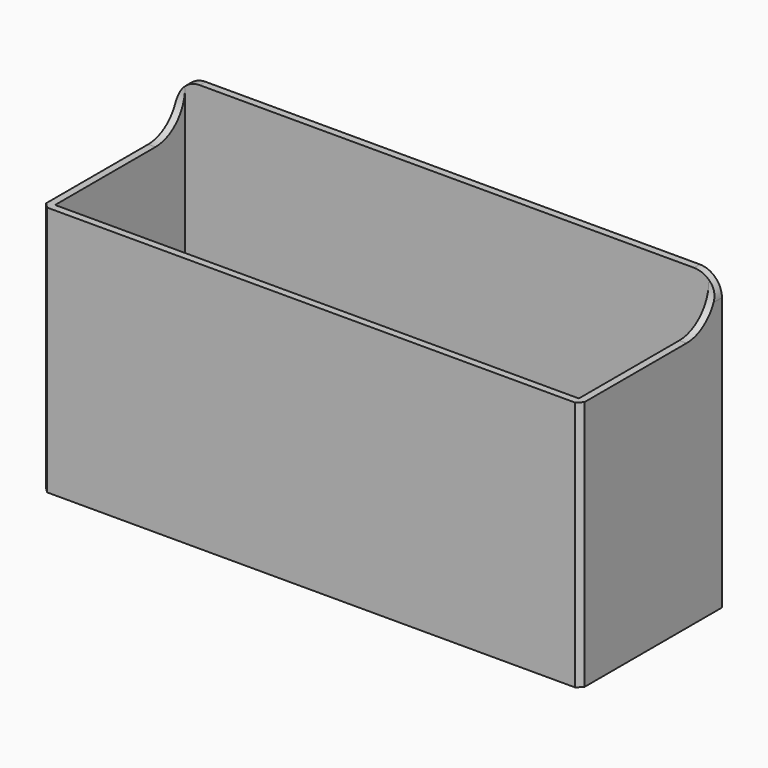
from build123d import *

# Parameters (mm, degrees)
SKETCH_W        = 73
SKETCH_H        = 24
PAD_DEPTH       = 40
SKETCH001_W     = 71.020102
SKETCH001_H     = 22.020102
POCKET_DEPTH    = 39
POCKET001_DEPTH = 6
CHAMFER_SIZE    = 1
FILLET_R        = 3
FILLET001_R     = 5
CHAMFER001_SIZE = 0.7


with BuildPart() as part:
    # Sketch → Pad (new body)
    with BuildSketch(Plane.XY):
        with Locations((36.5, 12)):
            Rectangle(SKETCH_W, SKETCH_H)
    extrude(amount=PAD_DEPTH)

    # Sketch001 (on Face6 of Pad) → Pocket (cut)
    with BuildSketch(Plane.XY.offset(40)):
        with Locations((36.5, 12)):
            Rectangle(SKETCH001_W, SKETCH001_H)
    extrude(amount=-POCKET_DEPTH, mode=Mode.SUBTRACT)

    # Sketch002 (on Face5 of Pocket) → Pocket001 (cut)
    with BuildSketch(Plane.XY.offset(40)):
        Polygon((0, 23.010051), (0.989949, 23.010051), (0.989949, 0.989949), (72.010051, 0.989949), (72.010051, 23.010051), (73, 23.010051), (73, 0), (0, 0), align=None)
    extrude(amount=-POCKET001_DEPTH, mode=Mode.SUBTRACT)

    # Chamfer
    chamfer_edges = [part.edges().sort_by_distance(p)[0] for p in [
        (36.5, 23.010051, 1),
        (72.010051, 12, 1),
        (36.5, 0.989949, 1),
        (0.989949, 12, 1),
    ]]
    chamfer(chamfer_edges, length=CHAMFER_SIZE)

    # Fillet
    fillet_edges = [part.edges().sort_by_distance(p)[0] for p in [
        (0, 23.505025, 40),
        (73, 23.505025, 40),
    ]]
    fillet(fillet_edges, radius=FILLET_R)

    # Fillet001
    fillet001_edges = [part.edges().sort_by_distance(p)[0] for p in [
        (0.494975, 23.010051, 34),
        (72.505025, 23.010051, 34),
    ]]
    fillet(fillet001_edges, radius=FILLET001_R)

    # Chamfer001
    chamfer001_edges = [part.edges().sort_by_distance(p)[0] for p in [
        (0, 0, 17),
        (73, 0, 17),
    ]]
    chamfer(chamfer001_edges, length=CHAMFER001_SIZE)


solid = part.part
